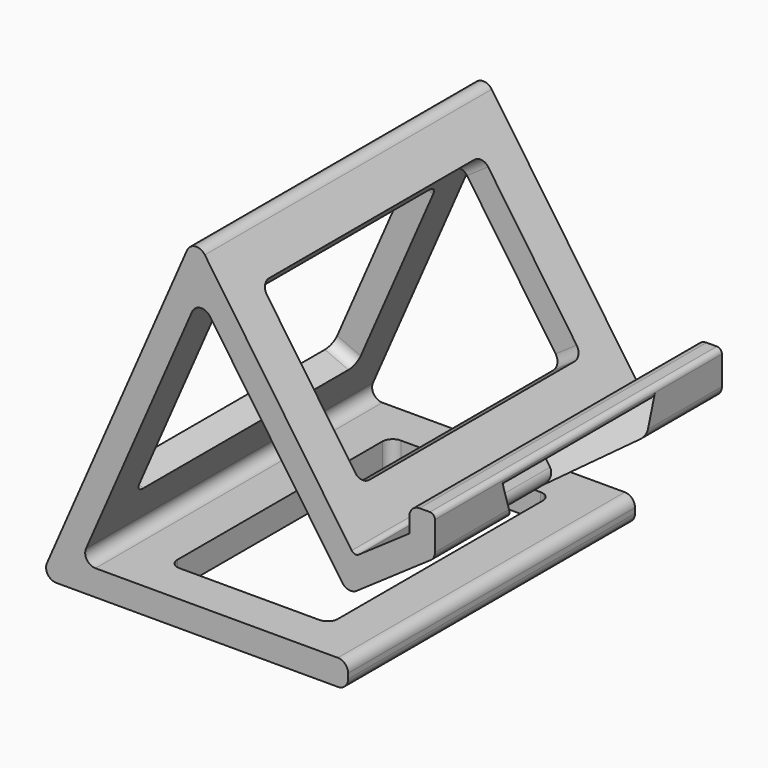
from build123d import *

# Parameters (mm, degrees)
PAD_DEPTH       = 70
POCKET_DEPTH    = 28.2506186199
FILLET_R        = 2
FILLET001_R     = 1
FILLET002_R     = 2
FILLET003_R     = 2
SKETCH002_W     = 34.4087464699
SKETCH002_H     = 54
POCKET001_DEPTH = 5
SKETCH003_W     = 39.3291895531
SKETCH003_H     = 54
POCKET002_DEPTH = 5
SKETCH004_W     = 31.3073233784
SKETCH004_H     = 54
POCKET003_DEPTH = 5
FILLET004_R     = 2
FILLET005_R     = 2


with BuildPart() as part:
    # Sketch → Pad (new body)
    with BuildSketch(Plane.XZ):
        Polygon((0, 0), (30, 68.7386354243), (61.2704610896, 23.4931023493), (71.9648598164, 30.8843022432), (71.9648598164, 35.8843022432), (76.9648598164, 35.8843022432), (76.9648598164, 28.2619948796), (60, 16.5371028798), (30.9913221648, 58.5100398536), (7.6376261583, 5), (60, 5), (60, 0), align=None)
    extrude(amount=PAD_DEPTH)

    # Sketch001 (on Face3 of Pad) → Pocket (cut, through all)
    with BuildSketch(Plane(origin=(8.8177286613, 0, -12.7584570195), x_dir=(-0.8226460559, 0, -0.568553838), z_dir=(-0.568553838, 0, 0.8226460559))):
        Polygon((-90.2609966662, 57.5), (-65.2609966662, 44), (-65.2609966662, 26), (-90.2609966662, 12.5), align=None)
    extrude(amount=-POCKET_DEPTH, mode=Mode.SUBTRACT)

    # Fillet
    fillet_edges = [part.edges().sort_by_distance(p)[0] for p in [
        (60, -35, 5),
        (60, -35, 0),
        (30, -35, 68.738635),
        (0, -35, 0),
        (60, -35, 16.537103),
        (71.96486, -35, 35.884302),
        (76.96486, -60.813023, 28.261995),
        (76.96486, -9.186977, 28.261995),
    ]]
    fillet(fillet_edges, radius=FILLET_R)

    # Fillet001
    fillet001_edges = [part.edges().sort_by_distance(p)[0] for p in [
        (61.270461, -35, 23.493102),
        (76.96486, -35, 35.884302),
        (76.96486, -35, 34.339943),
        (71.96486, -35, 30.884302),
    ]]
    fillet(fillet001_edges, radius=FILLET001_R)

    # Fillet002
    fillet002_edges = [part.edges().sort_by_distance(p)[0] for p in [
        (7.637626, -35, 5),
    ]]
    fillet(fillet002_edges, radius=FILLET002_R)

    # Fillet003
    fillet003_edges = [part.edges().sort_by_distance(p)[0] for p in [
        (65.347199, -35, 20.232703),
    ]]
    fillet(fillet003_edges, radius=FILLET003_R)

    # Sketch002 (on Face29 of Fillet003) → Pocket001 (cut)
    with BuildSketch(Plane(origin=(52.4527324283, 0, 36.2515593688), x_dir=(-0.568553838, 0, 0.8226460559), z_dir=(0.8226460559, 0, 0.568553838))):
        with Locations((10.6953254156, 35)):
            Rectangle(SKETCH002_W, SKETCH002_H)
    extrude(amount=-POCKET001_DEPTH, mode=Mode.SUBTRACT)

    # Sketch003 (on Face20 of Pocket001) → Pocket002 (cut)
    with BuildSketch(Plane(origin=(4.582575695, 0, -2), x_dir=(0.4, 0, 0.916515139), z_dir=(0.916515139, 0, -0.4))):
        with Locations((38.3572713981, 35)):
            Rectangle(SKETCH003_W, SKETCH003_H)
    extrude(amount=-POCKET002_DEPTH, mode=Mode.SUBTRACT)

    # Sketch004 (on Face17 of Pocket002) → Pocket003 (cut)
    with BuildSketch(Plane(origin=(0, 0, 5), x_dir=(-1, 0, 0), z_dir=(0, 0, 1))):
        with Locations((-34.3463383108, 35)):
            Rectangle(SKETCH004_W, SKETCH004_H)
    extrude(amount=-POCKET003_DEPTH, mode=Mode.SUBTRACT)

    # Fillet004
    fillet004_edges = [part.edges().sort_by_distance(p)[0] for p in [
        (54.096861, -8, 29.475532),
        (34.533637, -8, 57.781752),
        (34.533637, -62, 57.781752),
        (54.096861, -62, 29.475532),
        (18.692677, -62, 2.5),
        (18.692677, -8, 2.5),
        (50, -8, 2.5),
        (50, -62, 2.5),
        (9.768358, -62, 16.132121),
        (9.768358, -8, 16.132121),
        (25.500034, -8, 52.177919),
        (25.500034, -62, 52.177919),
    ]]
    fillet(fillet004_edges, radius=FILLET004_R)

    # Fillet005
    fillet005_edges = [part.edges().sort_by_distance(p)[0] for p in [
        (30.991322, -35, 58.51004),
    ]]
    fillet(fillet005_edges, radius=FILLET005_R)


solid = part.part
